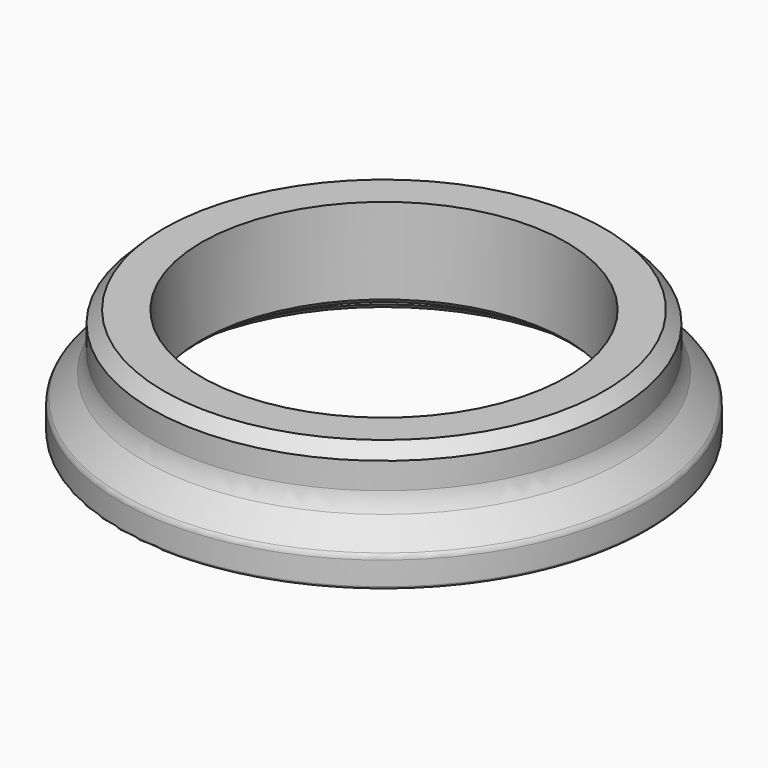
from build123d import *

# Parameters (mm, degrees)
F1_R    = 0.762
F2_R    = 2.54
F7_R    = 0.254
F3_SIZE = 0.508
F4_R    = 0.254
F5_SIZE = 1.27


with BuildPart() as f6:
    # F0 (on Front) → F6 (revolve)
    with BuildSketch(Plane.XZ):
        Polygon((-27.69616, -0.77978), (-27.69616, -3.81), (-21.92782, -3.81), (-21.92782, -1.905), (-19.15414, -1.905), (-19.15414, 7.62), (-24.384, 7.62), (-24.384, 2.53238), align=None)
    revolve(axis=Axis((0, 0, 5.998353), (0, 0, -1)))

    # F1
    f1_edges = [f6.edges().sort_by_distance(p)[0] for p in [
        (27.69616, 0, -0.77978),
    ]]
    fillet(f1_edges, radius=F1_R)

    # F2
    f2_edges = [f6.edges().sort_by_distance(p)[0] for p in [
        (24.384, 0, 2.53238),
    ]]
    fillet(f2_edges, radius=F2_R)

    # F7
    f7_edges = [f6.edges().sort_by_distance(p)[0] for p in [
        (27.69616, 0, -3.81),
    ]]
    fillet(f7_edges, radius=F7_R)

    # F3
    f3_edges = [f6.edges().sort_by_distance(p)[0] for p in [
        (21.92782, 0, -3.81),
        (19.15414, 0, -1.905),
    ]]
    chamfer(f3_edges, length=F3_SIZE)

    # F4
    f4_edges = [f6.edges().sort_by_distance(p)[0] for p in [
        (21.92782, 0, -1.905),
    ]]
    fillet(f4_edges, radius=F4_R)

    # F5
    f5_edges = [f6.edges().sort_by_distance(p)[0] for p in [
        (24.384, 0, 7.62),
    ]]
    chamfer(f5_edges, length=F5_SIZE)


solid = f6.part
